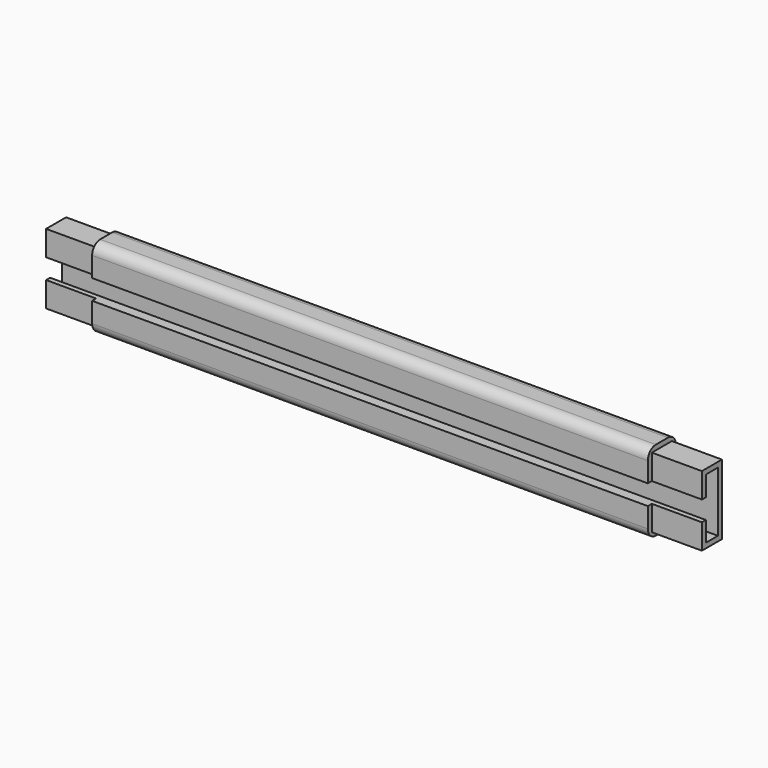
from build123d import *

# Parameters (mm, degrees)
F0_W     = 121
F0_H     = 16
F1_DEPTH = 7
F3_DEPTH = 121.001
F5_DEPTH = 10
F7_DEPTH = 10
F8_R     = 2


with BuildPart() as f1:
    # F0 (on Front) → F1 (new body)
    with BuildSketch(Plane.XZ):
        with Locations((40.8839493543, 17.2579787597)):
            Rectangle(F0_W, F0_H)
    extrude(amount=F1_DEPTH)

    # F2 (on face) → F3 (cut, through all)
    with BuildSketch(Plane.YZ.offset(101.3839493543)):
        Polygon((-7, 19.2579787597), (-7, 15.2579787597), (-5, 15.2579787597), (-5, 11.2579787597), (-2, 11.2579787597), (-2, 23.2579787597), (-5, 23.2579787597), (-5, 19.2579787597), align=None)
    extrude(amount=-F3_DEPTH, mode=Mode.SUBTRACT)

    # F4 (on face) → F5 (join)
    with BuildSketch(Plane.YZ.offset(101.3839493543)):
        Polygon((-6, 15.2579787597), (-6, 10.2579787597), (-1, 10.2579787597), (-1, 24.2579787597), (-6, 24.2579787597), (-6, 19.2579787597), (-5, 19.2579787597), (-5, 23.2579787597), (-2, 23.2579787597), (-2, 11.2579787597), (-5, 11.2579787597), (-5, 15.2579787597), align=None)
    extrude(amount=F5_DEPTH)

    # F6 (on face) → F7 (cut)
    with BuildSketch(Plane(origin=(-19.6160506457, 0, 0), x_dir=(0, -1, 0), z_dir=(-1, 0, 0))):
        Polygon((1, 24.2579787597), (6, 24.2579787597), (6, 19.2579787597), (7, 19.2579787597), (7, 25.2579787597), (0, 25.2579787597), (0, 9.2579787597), (7, 9.2579787597), (7, 15.2579787597), (6, 15.2579787597), (6, 10.2579787597), (1, 10.2579787597), align=None)
    extrude(amount=-F7_DEPTH, mode=Mode.SUBTRACT)

    # F8
    f8_edges = [f1.edges().sort_by_distance(p)[0] for p in [
        (45.883949, -7, 25.257979),
        (45.883949, -7, 9.257979),
        (45.883949, 0, 25.257979),
        (45.883949, 0, 9.257979),
    ]]
    fillet(f8_edges, radius=F8_R)


solid = f1.part
